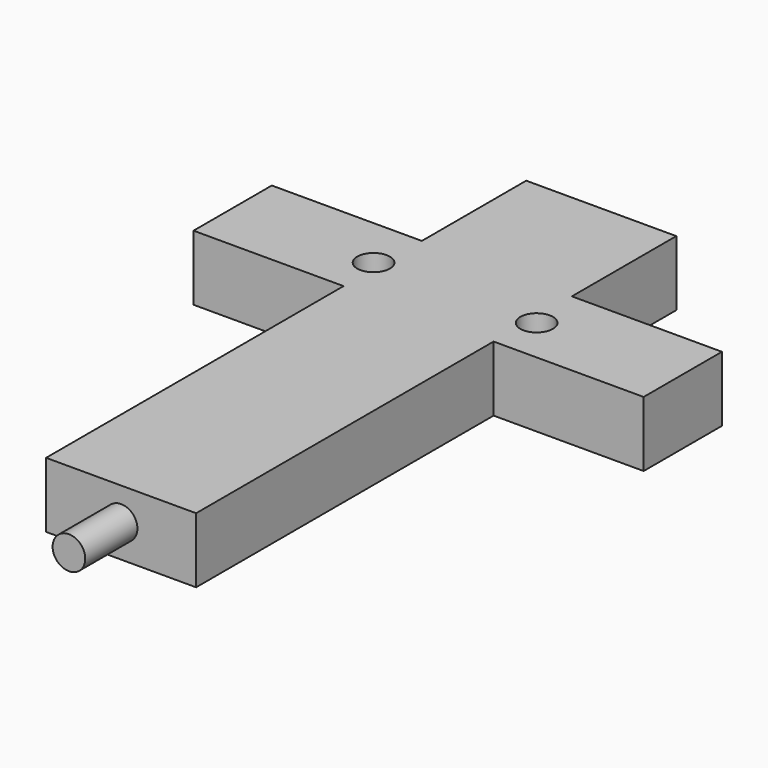
from build123d import *

# Parameters (mm, degrees)
PAD_DEPTH    = 10
SKETCH001_R  = 2.5
PAD001_DEPTH = 10
SKETCH002_R  = 2.5
POCKET_DEPTH = 10


with BuildPart() as part:
    # Sketch → Pad (new body)
    with BuildSketch(Plane.XY):
        Polygon((0, 0), (23, 0), (23, 57), (46, 57), (46, 72), (23, 72), (23, 92), (0, 92), (0, 72), (-23, 72), (-23, 57), (0, 57), align=None)
    extrude(amount=PAD_DEPTH)

    # Sketch001 → Pad001 (new body)
    with BuildSketch(Plane.XZ):
        with Locations((11.5, 5)):
            Circle(SKETCH001_R)
    extrude(amount=PAD001_DEPTH)

    # Sketch002 → Pocket (cut)
    with BuildSketch(Plane.XY.offset(10)):
        with Locations((24, 64)):
            Circle(SKETCH002_R)
        with Locations((-1, 64)):
            Circle(SKETCH002_R)
    extrude(amount=-POCKET_DEPTH, mode=Mode.SUBTRACT)


solid = part.part
